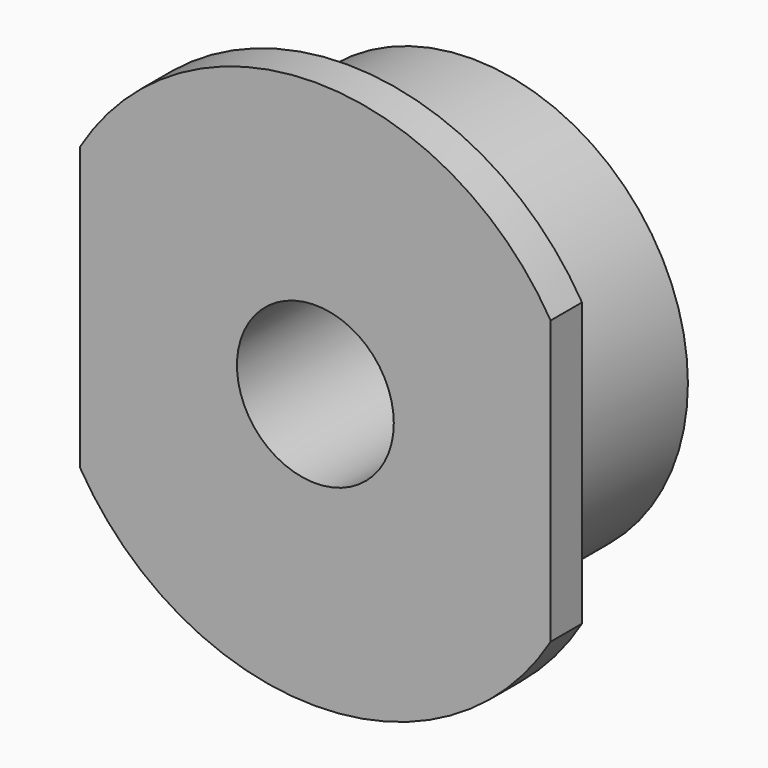
from build123d import *

# Parameters (mm, degrees)
F0_R     = 35
F0_R_2   = 10
F1_DEPTH = 25
F2_R     = 35
F2_R_2   = 27.5
F3_DEPTH = 20
F4_W     = 13.364931
F4_H     = 62.559245
F5_DEPTH = 25


with BuildPart() as f1:
    # F0 (on Front) → F1 (new body)
    with BuildSketch(Plane.XZ):
        Circle(F0_R)
        Circle(F0_R_2, mode=Mode.SUBTRACT)
    extrude(amount=F1_DEPTH)

    # F2 (on face) → F3 (cut)
    with BuildSketch(Plane(origin=(0, 0, 0), x_dir=(-1, 0, 0), z_dir=(0, 1, 0))):
        Circle(F2_R)
        Circle(F2_R_2, mode=Mode.SUBTRACT)
    extrude(amount=-F3_DEPTH, mode=Mode.SUBTRACT)

    # F4 (on face) → F5 (cut)
    with BuildSketch(Plane.XZ.offset(25)):
        with Locations((-36.682465, -1.913552)):
            Rectangle(F4_W, F4_H)
        with Locations((36.682465, -1.913552)):
            Rectangle(F4_W, F4_H)
    extrude(amount=-F5_DEPTH, mode=Mode.SUBTRACT)


solid = f1.part
